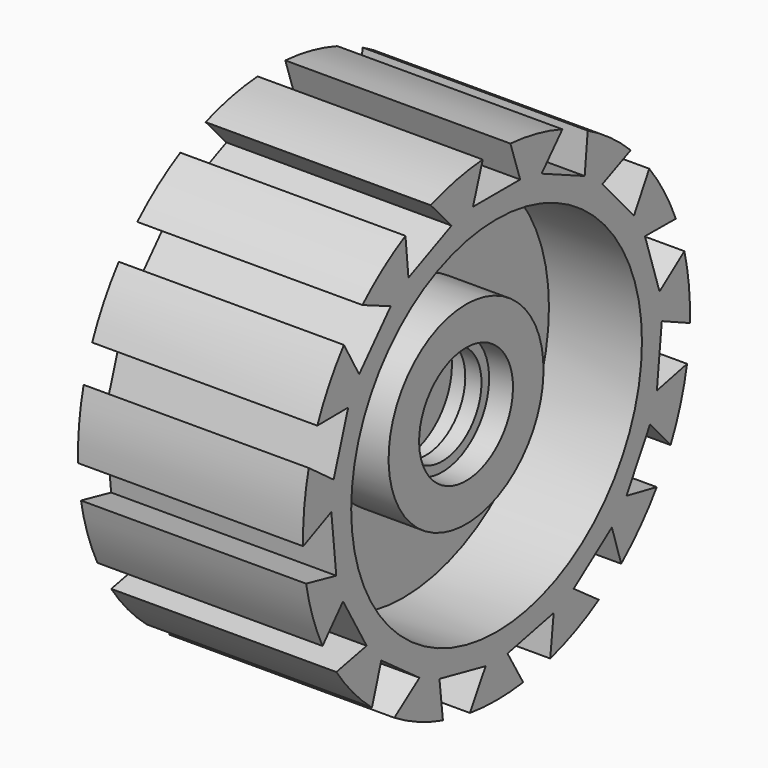
from build123d import *

# Parameters (mm, degrees)
F3_DEPTH = 55.88
F4_COUNT = 15


with BuildPart() as f1:
    # F0 (on Front) → F1 (revolve)
    with BuildSketch(Plane.XZ):
        Polygon((-43.6586365104, 67.430395633), (-43.6586365104, 44.1211201251), (-7.5847627595, 44.1211201251), (-7.5847627595, 11.192150414), (-31.8190082908, 11.192150414), (-31.8190082908, -3.6073876545), (-21.0893414915, -3.6073876545), (-21.0893414915, -7.1222772822), (-15.1695264503, -7.1222772822), (-15.1695264503, -3.6073876545), (-8.6947288364, -3.6073876545), (-8.6947288364, -17.8519431502), (8.1397471949, -17.8519431502), (8.1397471949, -3.6073876545), (16.2794925272, -3.6073876545), (16.2794925272, -7.3072714731), (22.5692950189, -7.3072714731), (22.5692950189, -3.6073876545), (31.8190082908, -3.6073876545), (31.8190082908, 11.192150414), (7.5847627595, 11.192150414), (7.5847627595, 44.1211201251), (43.6586365104, 44.1211201251), (43.6586365104, 67.430395633), align=None)
    revolve(axis=Axis((0, 0, -26.361675933), (1, 0, 0)))

    # F2 (on Right) → F3 (cut, symmetric)
    with BuildSketch(Plane.YZ):
        Polygon((11.4407278597, 52.9837198555), (5.9587107971, 69.429770112), (-5.9587107971, 69.429770112), (-11.4407278597, 52.9837198555), align=None)
    f3 = extrude(amount=F3_DEPTH, both=True, mode=Mode.SUBTRACT)

    # F4: F3 ×15 about axis
    f4_axis = Axis((31.8190082908, 0, -26.361675933), (1, 0, 0))
    for i in range(1, F4_COUNT):
        add(f3.rotate(f4_axis, i * 360 / F4_COUNT), mode=Mode.SUBTRACT)


solid = f1.part
